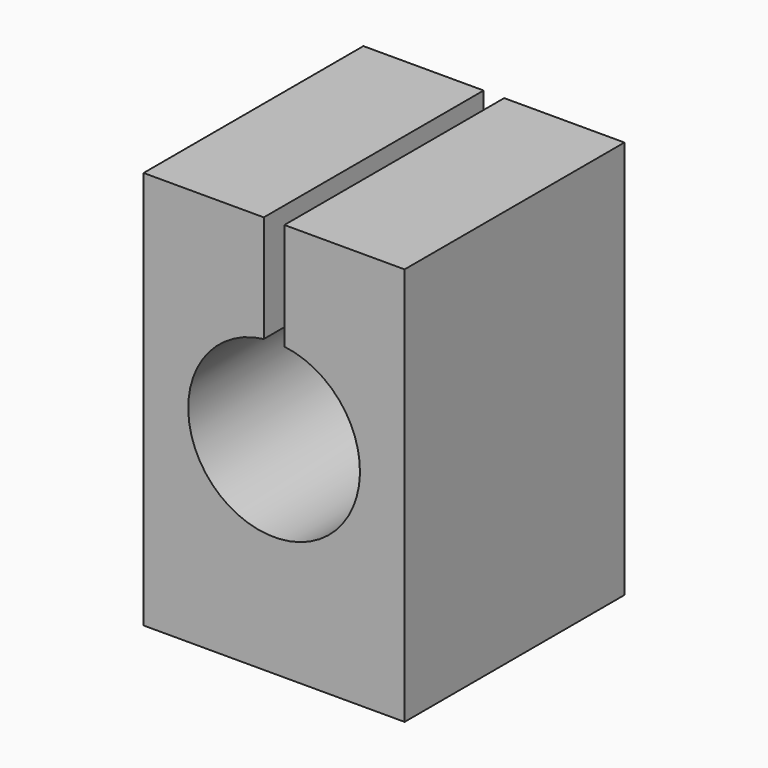
from build123d import *

# Parameters (mm, degrees)
F1_DEPTH = 40
F2_R     = 4
F3_DEPTH = 16


with BuildPart() as f1:
    # F0 (on Front) → F1 (new body)
    with BuildSketch(Plane.XZ):
        with BuildLine():
            Line((19, -29), (19, 29))
            Line((19, 29), (1.5, 29))
            Line((1.5, 29), (1.5, 13.409674))
            ThreePointArc((1.5, 13.409674), (0, -11.5), (-1.5, 13.409674))
            Line((-1.5, 13.409674), (-1.5, 29))
            Line((-1.5, 29), (-19, 29))
            Line((-19, 29), (-19, -29))
            Line((-19, -29), (19, -29))
        make_face()
    extrude(amount=F1_DEPTH)

    # F2 (on face) → F3 (cut)
    with BuildSketch(Plane(origin=(0, 0, -29), x_dir=(1, 0, 0), z_dir=(0, 0, -1))):
        with Locations((-12, 20)):
            Circle(F2_R)
        with Locations((12, 20)):
            Circle(F2_R)
    extrude(amount=-F3_DEPTH, mode=Mode.SUBTRACT)


solid = f1.part
